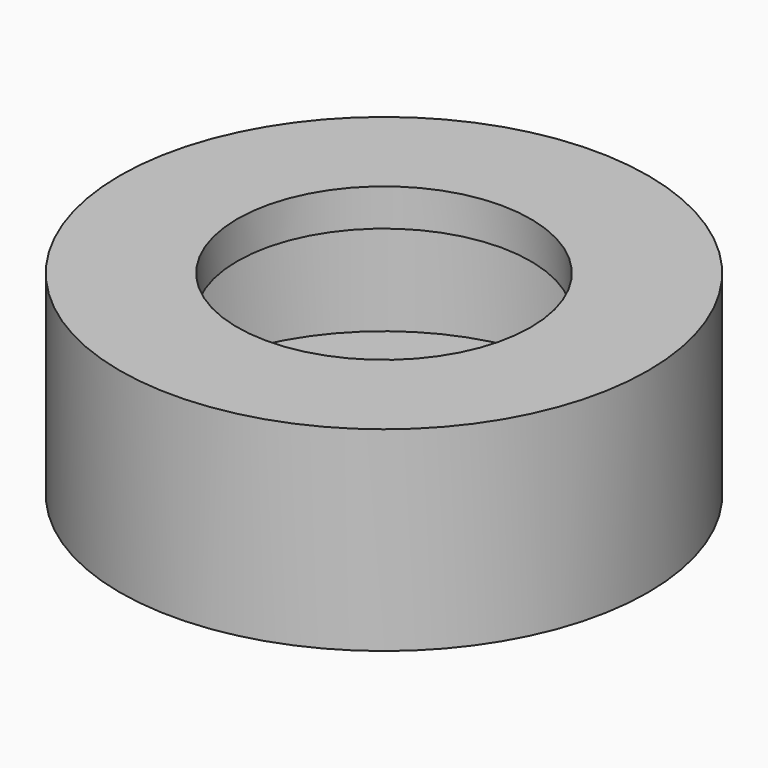
from build123d import *


with BuildPart() as f1:
    # F0 (on Front) → F1 (revolve)
    with BuildSketch(Plane.XZ):
        Polygon((2.25, -1.5448883603), (2.25, -2.4948883603), (3.7, -2.4948883603), (3.7, -1.4948883603), (3.75, -1.4948883603), (5.2, -1.4948883603), (5.2, 1.4948883603), (3.75, 1.4948883603), (3.7, 1.4948883603), (3.7, 2.4948883603), (2.25, 2.4948883603), (2.25, 1.5448883603), (2.25, 1.4948883603), (2.25, -1.4948883603), align=None)
    revolve(axis=Axis((0, 0, 0), (0, 0, -1)))


with BuildPart() as f1b:
    # F0 (on Front) → F1, piece 2 (revolve)
    with BuildSketch(Plane.XZ):
        Polygon((3.75, -2.4948883603), (6.75, -2.4948883603), (6.75, 2.4948883603), (3.75, 2.4948883603), (3.75, 1.5448883603), (5.25, 1.5448883603), (5.25, -1.5448883603), (3.75, -1.5448883603), align=None)
    revolve(axis=Axis((0, 0, 0), (0, 0, -1)))


solid = f1b.part
